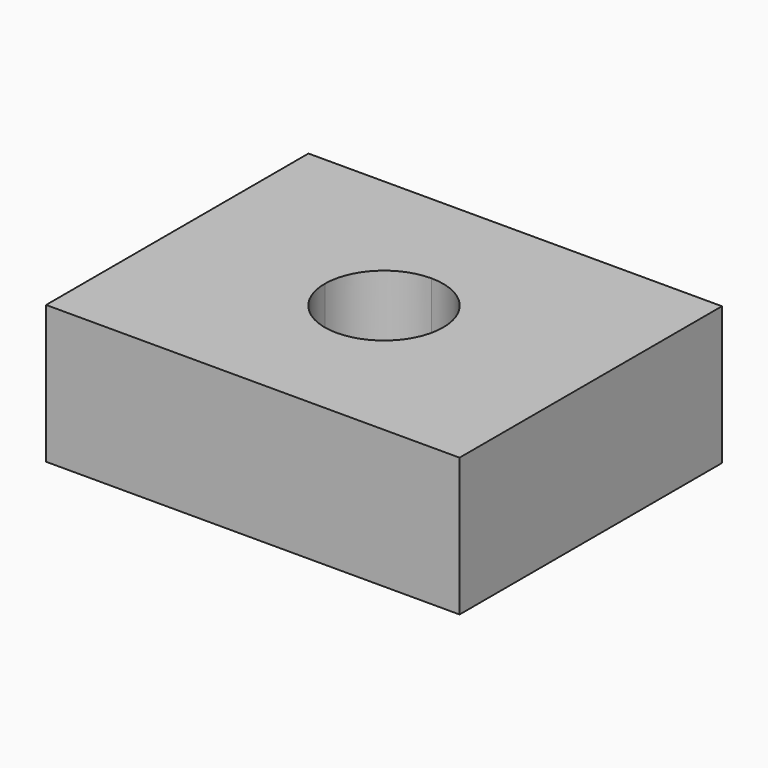
from build123d import *

# Parameters (mm, degrees)
PAD_DEPTH               = 21
PAD001_DEPTH            = 5
PAD_MIRRORED_2_DEPTH    = 21
PAD001_MIRRORED_2_DEPTH = 5


with BuildPart() as part:
    # Sketch → Pad (new body)
    with BuildSketch(Plane.XY):
        with BuildLine():
            ThreePointArc((9, 0), (6.363961, 6.363961), (0, 9))
            Line((0, 9), (0, 24.941391))
            Line((0, 24.941391), (31.444139, 24.941391))
            Line((31.444139, 24.941391), (31.444139, 0))
            Line((31.444139, 0), (9, 0))
        make_face()
    pad = extrude(amount=PAD_DEPTH)

    # Sketch001 → Pad001 (join)
    with BuildSketch(Plane.XY):
        with BuildLine():
            ThreePointArc((9, 0), (6.363961, 6.363961), (0, 9))
            Line((0, 9), (0, 4))
            ThreePointArc((4, 0), (2.828427, 2.828427), (0, 4))
            Line((4, 0), (9, 0))
        make_face()
    pad001 = extrude(amount=PAD001_DEPTH)

    # Sketch Mirrored 2 → Pad Mirrored 2 (add)
    with BuildSketch(Plane(origin=(0, 0, 0), x_dir=(-1, 0, 0), z_dir=(0, 0, -1))):
        with BuildLine():
            ThreePointArc((9, 0), (6.363961, 6.363961), (0, 9))
            Line((0, 9), (0, 24.941391))
            Line((0, 24.941391), (31.444139, 24.941391))
            Line((31.444139, 24.941391), (31.444139, 0))
            Line((31.444139, 0), (9, 0))
        make_face()
    pad_mirrored_2 = extrude(amount=-PAD_MIRRORED_2_DEPTH)

    # Sketch001 Mirrored 2 → Pad001 Mirrored 2 (add)
    with BuildSketch(Plane(origin=(0, 0, 0), x_dir=(-1, 0, 0), z_dir=(0, 0, -1))):
        with BuildLine():
            ThreePointArc((9, 0), (6.363961, 6.363961), (0, 9))
            Line((0, 9), (0, 4))
            ThreePointArc((4, 0), (2.828427, 2.828427), (0, 4))
            Line((4, 0), (9, 0))
        make_face()
    pad001_mirrored_2 = extrude(amount=-PAD001_MIRRORED_2_DEPTH)

    # Mirrored001: Pad, Pad001, Pad Mirrored 2, Pad001 Mirrored 2 across Sketch H_Axis
    add(pad.mirror(Plane.ZX))
    add(pad001.mirror(Plane.ZX))
    add(pad_mirrored_2.mirror(Plane.ZX))
    add(pad001_mirrored_2.mirror(Plane.ZX))


solid = part.part
